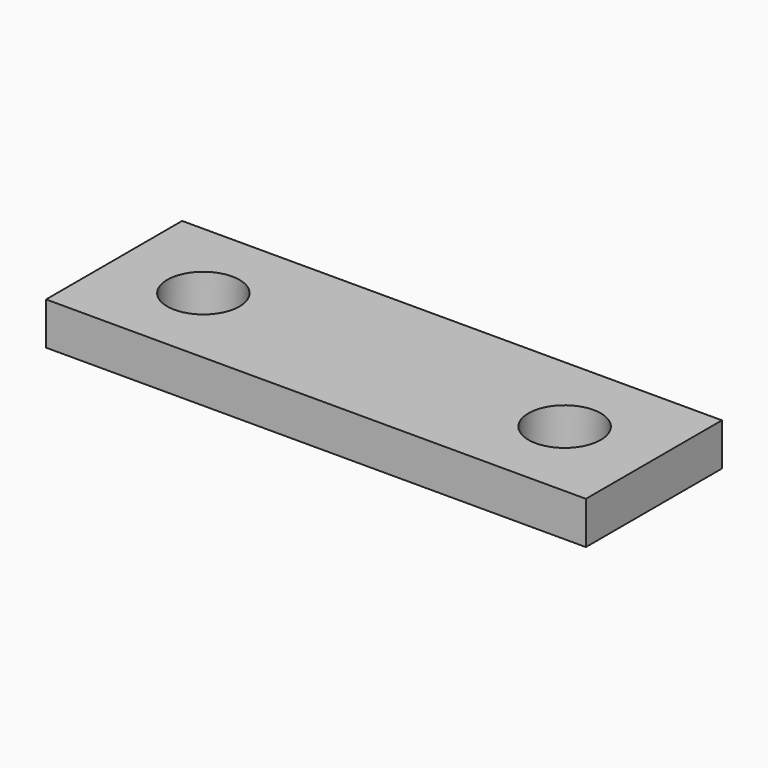
from build123d import *

# Parameters (mm, degrees)
CYLINDER009_R     = 1.7
CYLINDER009_DEPTH = 30
CYLINDER007_R     = 1.7
CYLINDER007_DEPTH = 30
BOX015_W          = 25.4
BOX015_H          = 8
BOX015_DEPTH      = 2


with BuildPart() as cylinder009:
    # Cylinder009 → Cylinder009 (new body)
    with BuildSketch(Plane(origin=(128, 46.8, -127), x_dir=(1, 0, 0), z_dir=(0, 0, 1))):
        Circle(CYLINDER009_R)
    extrude(amount=CYLINDER009_DEPTH)


with BuildPart() as cylinder007:
    # Cylinder007 → Cylinder007 (new body)
    with BuildSketch(Plane(origin=(111, 46.8, -127), x_dir=(1, 0, 0), z_dir=(0, 0, 1))):
        Circle(CYLINDER007_R)
    extrude(amount=CYLINDER007_DEPTH)


with BuildPart() as cut010:
    # Box015 → Box015 (new body)
    with BuildSketch(Plane(origin=(106.8, 42.8, -110), x_dir=(1, 0, 0), z_dir=(0, 0, 1))):
        with Locations((12.7, 4)):
            Rectangle(BOX015_W, BOX015_H)
    extrude(amount=BOX015_DEPTH)

    # Cut009: cut Cylinder007
    add(cylinder007.part, mode=Mode.SUBTRACT)

    # Cut010: cut Cylinder009
    add(cylinder009.part, mode=Mode.SUBTRACT)


solid = cut010.part
